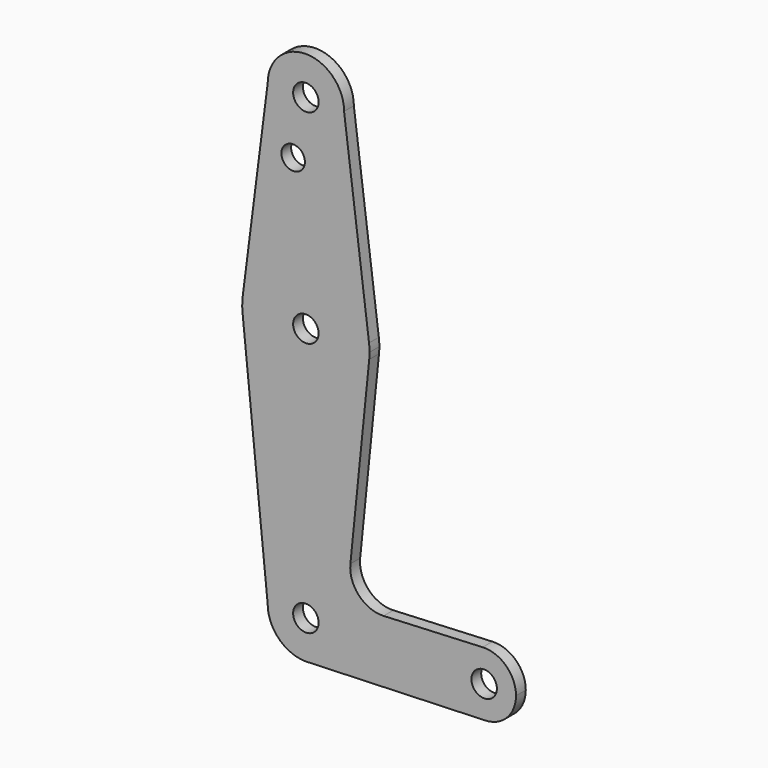
from build123d import *

# Parameters (mm, degrees)
F0_R     = 3.175
F0_R_2   = 2.935696
F1_DEPTH = 3.048


with BuildPart() as f1:
    # F0 (on Front) → F1 (new body)
    with BuildSketch(Plane.XZ):
        with BuildLine():
            ThreePointArc((0.677344, -9.500886), (6.970557, -6.491299), (9.525, 0))
            ThreePointArc((9.525, 0), (0, 9.525), (-9.525, 0))
            ThreePointArc((-9.525, 0), (-6.735192, -6.735192), (0, -9.525))
            Line((0, -9.525), (0.677344, -9.500886))
        make_face()
        Circle(F0_R, mode=Mode.SUBTRACT)
        with BuildLine():
            ThreePointArc((-9.525, 0), (0, 9.525), (9.525, 0))
            ThreePointArc((9.525, 0), (6.970557, -6.491299), (0.677344, -9.500886))
            Line((0.677344, -9.500886), (44.732405, -7.932475))
            ThreePointArc((44.732405, -7.932475), (36.519221, -0.326571), (44.079274, 7.928838))
            Line((44.079274, 7.928838), (19.377548, 6.773866))
            ThreePointArc((19.377548, 6.773866), (13.234292, 9.248177), (11.096492, 15.51648))
            Line((11.096492, 15.51648), (15.794203, 61.90038))
            ThreePointArc((15.794203, 61.90038), (0, 47.625), (-15.794203, 61.90038))
            Line((-15.794203, 61.90038), (-9.525, 0))
        make_face()
        with BuildLine():
            ThreePointArc((0, -9.525), (0.338886, -9.51897), (0.677344, -9.500886))
            Line((0.677344, -9.500886), (0, -9.525))
        make_face()
        with BuildLine():
            ThreePointArc((-15.747457, 65.508289), (-15.873668, 63.705667), (-15.794203, 61.90038))
            ThreePointArc((-15.794203, 61.90038), (0, 47.625), (15.794203, 61.90038))
            ThreePointArc((15.794203, 61.90038), (15.854788, 62.699171), (15.875, 63.5))
            ThreePointArc((15.875, 63.5), (15.843082, 64.506168), (15.747457, 65.508289))
            ThreePointArc((15.747457, 65.508289), (0, 79.375), (-15.747457, 65.508289))
        make_face()
        with Locations((0, 63.5)):
            Circle(F0_R, mode=Mode.SUBTRACT)
        with BuildLine():
            ThreePointArc((44.079274, 7.928838), (36.519221, -0.326571), (44.732405, -7.932475))
            ThreePointArc((44.732405, -7.932475), (50.161633, -5.51191), (52.3875, 0))
            ThreePointArc((52.3875, 0), (49.930021, 5.742236), (44.079274, 7.928838))
        make_face()
        with Locations((44.45, 0)):
            Circle(F0_R, mode=Mode.SUBTRACT)
        with BuildLine():
            Line((-9.525, 114.3), (-15.747457, 65.508289))
            ThreePointArc((-15.747457, 65.508289), (0, 79.375), (15.747457, 65.508289))
            Line((15.747457, 65.508289), (9.525, 114.3))
            ThreePointArc((9.525, 114.3), (0, 104.775), (-9.525, 114.3))
        make_face()
        with Locations((-3.175, 100.0252)):
            Circle(F0_R_2, mode=Mode.SUBTRACT)
        with BuildLine():
            ThreePointArc((9.525, 114.3), (0, 123.825), (-9.525, 114.3))
            ThreePointArc((-9.525, 114.3), (0, 104.775), (9.525, 114.3))
        make_face()
        with Locations((0, 114.3)):
            Circle(F0_R, mode=Mode.SUBTRACT)
    extrude(amount=F1_DEPTH)


solid = f1.part
